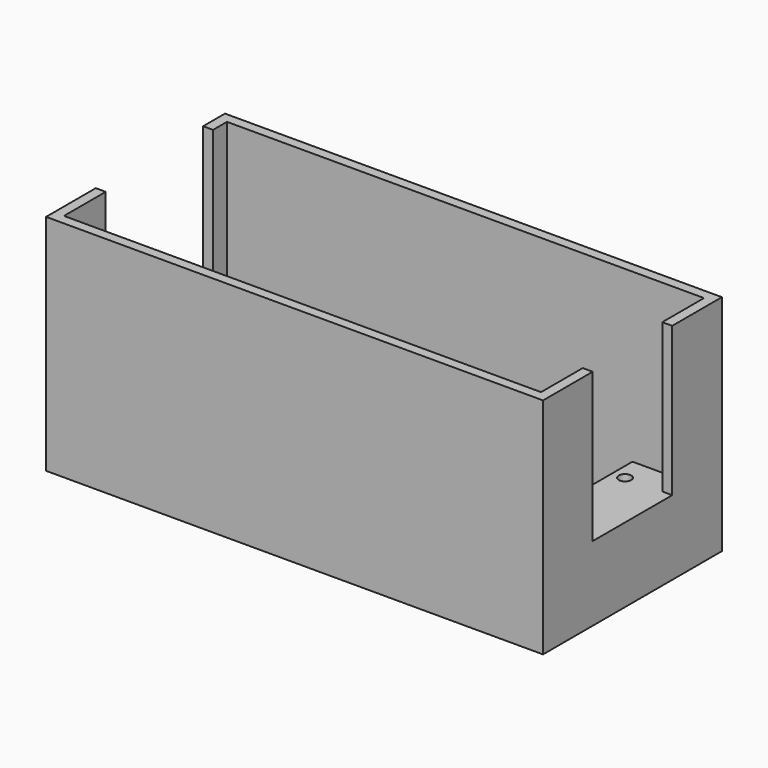
from build123d import *

# Parameters (mm, degrees)
SKETCH_W        = 100
SKETCH_H        = 45
PAD_DEPTH       = 45
SKETCH001_W     = 96
SKETCH001_H     = 41
POCKET_DEPTH    = 43
SKETCH002_W     = 10
SKETCH002_H     = 10
PAD001_DEPTH    = 9
SKETCH003_R     = 3
POCKET001_DEPTH = 3
SKETCH004_R     = 1.75
POCKET002_DEPTH = 42.001
SKETCH005_W     = 2
SKETCH005_H     = 20
POCKET003_DEPTH = 30
SKETCH006_W     = 10
SKETCH006_H     = 30
PAD002_DEPTH    = 13
SKETCH007_R     = 1.25
POCKET004_DEPTH = 12
SKETCH008_W     = 2
SKETCH008_H     = 7
POCKET005_DEPTH = 30


with BuildPart() as part:
    # Sketch → Pad (new body)
    with BuildSketch(Plane.XY):
        Rectangle(SKETCH_W, SKETCH_H)
    extrude(amount=PAD_DEPTH)

    # Sketch001 (on Face6 of Pad) → Pocket (cut)
    with BuildSketch(Plane.XY.offset(45)):
        Rectangle(SKETCH001_W, SKETCH001_H)
    extrude(amount=-POCKET_DEPTH, mode=Mode.SUBTRACT)

    # Sketch002 (on Face11 of Pocket) → Pad001 (join)
    with BuildSketch(Plane.XY.offset(2)):
        with Locations((15, -1.5)):
            Rectangle(SKETCH002_W, SKETCH002_H)
        with Locations((-15, 10)):
            Rectangle(SKETCH002_W, SKETCH002_H)
        with Locations((-15, -10)):
            Rectangle(SKETCH002_W, SKETCH002_H)
    extrude(amount=PAD001_DEPTH)

    # Sketch003 (on Face4 of Pad001) → Pocket001 (cut)
    with BuildSketch(Plane(origin=(0, 0, 0), x_dir=(1, 0, 0), z_dir=(0, 0, -1))):
        with Locations((15, 1.5)):
            Circle(SKETCH003_R)
    extrude(amount=-POCKET001_DEPTH, mode=Mode.SUBTRACT)

    # Sketch004 (on Face12 of Pocket001) → Pocket002 (cut, through all)
    with BuildSketch(Plane(origin=(0, 0, 3), x_dir=(1, 0, 0), z_dir=(0, 0, -1))):
        with Locations((15, 1.5)):
            Circle(SKETCH004_R)
    extrude(amount=-POCKET002_DEPTH, mode=Mode.SUBTRACT)

    # Sketch005 (on Face5 of Pocket002) → Pocket003 (cut)
    with BuildSketch(Plane.XY.offset(45)):
        with Locations((49, 0)):
            Rectangle(SKETCH005_W, SKETCH005_H)
    pocket003 = extrude(amount=-POCKET003_DEPTH, mode=Mode.SUBTRACT)

    # Mirrored: Pocket003 across YZ
    add(pocket003.mirror(Plane.YZ), mode=Mode.SUBTRACT)

    # Sketch006 (on Face20 of Mirrored) → Pad002 (join)
    with BuildSketch(Plane.XY.offset(2)):
        with Locations((43, 0)):
            Rectangle(SKETCH006_W, SKETCH006_H)
    extrude(amount=PAD002_DEPTH)

    # Sketch007 (on Face20 of Pad002) → Pocket004 (cut)
    with BuildSketch(Plane.XY.offset(15)):
        with Locations((40.5, 10)):
            Circle(SKETCH007_R)
        with Locations((40.5, -10)):
            Circle(SKETCH007_R)
    extrude(amount=-POCKET004_DEPTH, mode=Mode.SUBTRACT)

    # Sketch008 (on Face9 of Pocket004) → Pocket005 (cut)
    with BuildSketch(Plane.XY.offset(45)):
        with Locations((-49, 13.5)):
            Rectangle(SKETCH008_W, SKETCH008_H)
    extrude(amount=-POCKET005_DEPTH, mode=Mode.SUBTRACT)


solid = part.part
